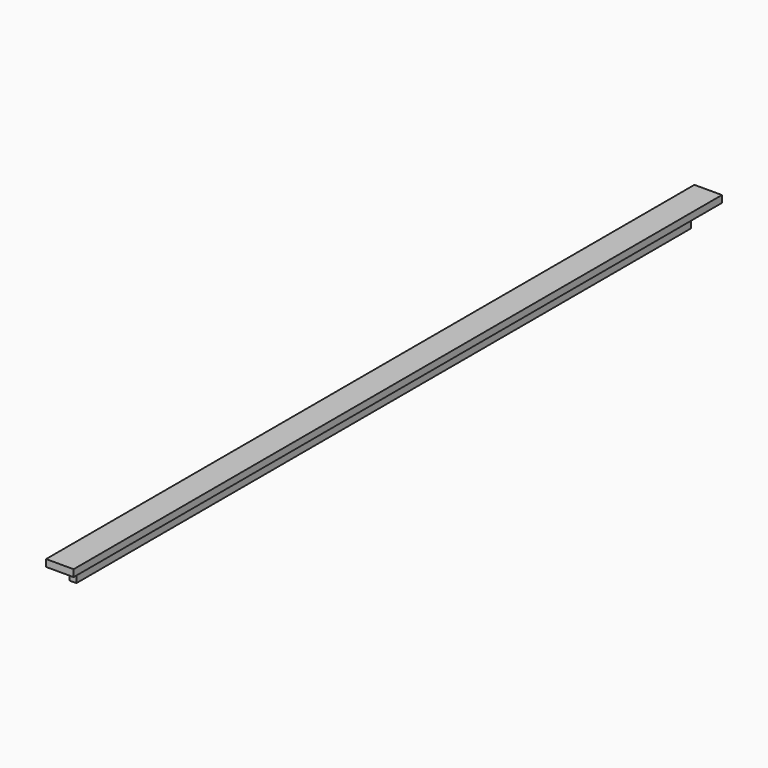
from build123d import *

# Parameters (mm, degrees)
F0_W     = 75
F0_H     = 19
F1_DEPTH = 1104
F2_W     = 19
F2_H     = 2094
F3_DEPTH = 50


with BuildPart() as f1:
    # F0 (on Front) → F1 (new body, symmetric)
    with BuildSketch(Plane.XZ):
        with Locations((-37.5, -9.5)):
            Rectangle(F0_W, F0_H)
    extrude(amount=F1_DEPTH, both=True)

    # F2 (on face) → F3 (join)
    with BuildSketch(Plane(origin=(0, 0, -19), x_dir=(1, 0, 0), z_dir=(0, 0, -1))):
        with Locations((-47.5, 0)):
            Rectangle(F2_W, F2_H)
    extrude(amount=F3_DEPTH)


solid = f1.part
